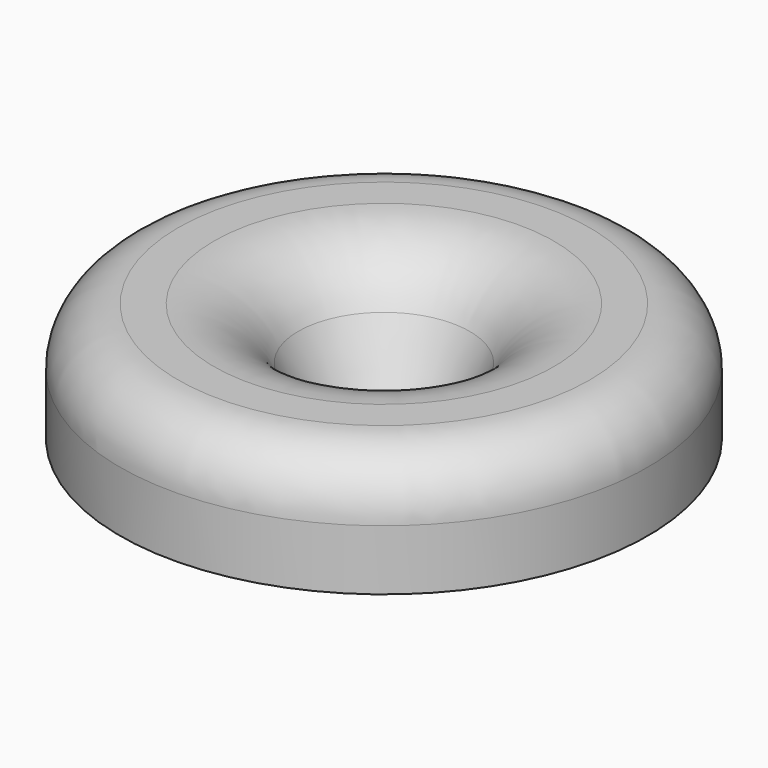
from build123d import *


with BuildPart() as f1:
    # F0 (on Front) → F1 (revolve)
    with BuildSketch(Plane.XZ):
        with BuildLine():
            Line((-15.630495, 10.26099), (-10.723607, 0.447214))
            ThreePointArc((-10.723607, 0.447214), (-10.434507, 0.196479), (-10.052786, 0.223607))
            Line((-10.052786, 0.223607), (-9.51613, 0.491935))
            ThreePointArc((-9.51613, 0.491935), (-9.265395, 0.781035), (-9.292523, 1.162755))
            Line((-9.292523, 1.162755), (-14.199412, 10.976532))
            ThreePointArc((-14.199412, 10.976532), (-19.95107, 17.270153), (-28.152476, 19.6))
            Line((-28.152476, 19.6), (-34.1, 19.6))
            ThreePointArc((-34.1, 19.6), (-40.888225, 16.788225), (-43.7, 10))
            Line((-43.7, 10), (-43.7, 0))
            Line((-43.7, 0), (-42.6, 0))
            ThreePointArc((-42.6, 0), (-42.246447, 0.146447), (-42.1, 0.5))
            Line((-42.1, 0.5), (-42.1, 10))
            ThreePointArc((-42.1, 10), (-39.756854, 15.656854), (-34.1, 18))
            Line((-34.1, 18), (-28.152476, 18))
            ThreePointArc((-28.152476, 18), (-20.79224, 15.909111), (-15.630495, 10.26099))
        make_face()
    revolve(axis=Axis((0, 0, 0.734674), (0, 0, 1)))


solid = f1.part
